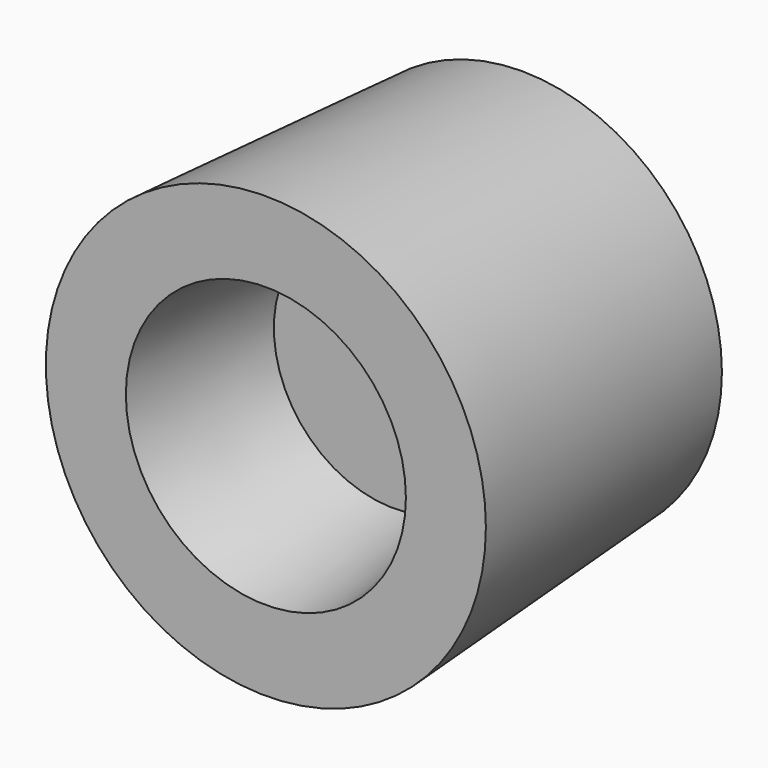
from build123d import *

# Parameters (mm, degrees)
CONE_ROLL_ANGLE    = 90
CONE001_ROLL_ANGLE = 90


with BuildPart() as cone:
    # Cone → Cone (revolve)
    with BuildSketch(Plane.XZ):
        Polygon((0, 0), (1.5, 0), (1.75, 2), (0, 2), align=None)
    revolve(axis=Axis((0, 0, 0), (0, 0, 1)))


with BuildPart() as cone_1:
    # Cone roll: moved
    add(cone.part.rotate(Axis((0, 0, 0), (1, 0, 0)), CONE_ROLL_ANGLE))


with BuildPart() as cone_2:
    # Cone placement: moved
    add(cone_1.part.moved(Location((0, 12, 26.35))))


with BuildPart() as switch_cap:
    # Cone001 → Cone001 (revolve)
    with BuildSketch(Plane.XZ):
        Polygon((0, 0), (2.5, 0), (2.75, 4), (0, 4), align=None)
    revolve(axis=Axis((0, 0, 0), (0, 0, 1)))


with BuildPart() as switch_cap_1:
    # Cone001 roll: moved
    add(switch_cap.part.rotate(Axis((0, 0, 0), (1, 0, 0)), CONE001_ROLL_ANGLE))


with BuildPart() as switch_cap_2:
    # Cone001 placement: moved
    add(switch_cap_1.part.moved(Location((0, 14, 26.35))))

    # Cut012: cut Cone
    add(cone_2.part, mode=Mode.SUBTRACT)


solid = switch_cap_2.part
